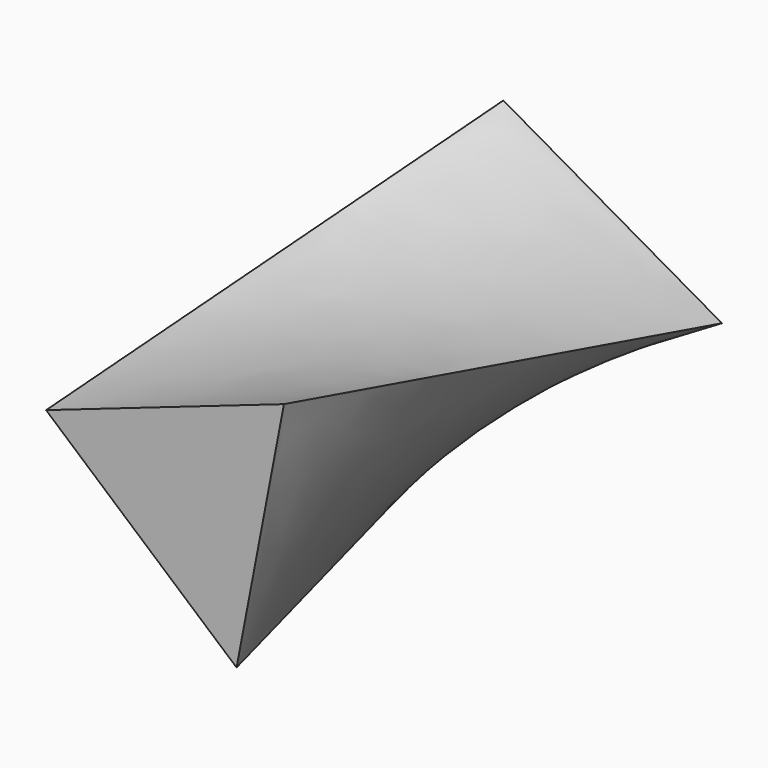
from build123d import *


with BuildPart() as f3:
    # F2 (on offset) → F3 section 0
    with BuildSketch(Plane.XZ.offset(25.4)):
        Polygon((2.500425, -7.198074), (4.983503, 5.764469), (-7.483928, 1.433606), align=None)
    # F0 (on Front) → F3 section 1
    with BuildSketch(Plane.XZ):
        Polygon((7.619943, 0.029525), (-3.83554, 6.584302), (-3.784402, -6.613826), align=None)
    loft()


solid = f3.part
